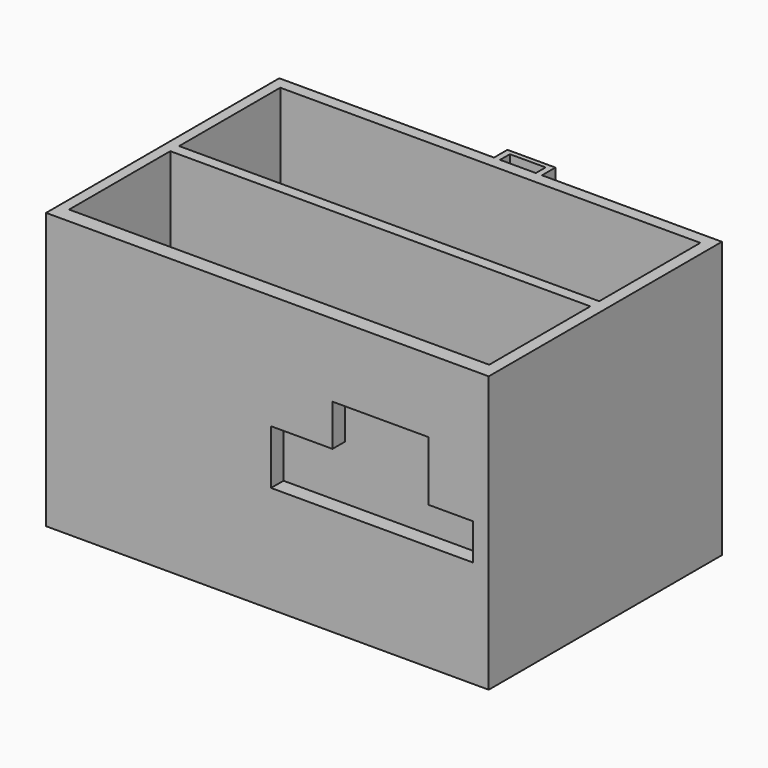
from build123d import *

# Parameters (mm, degrees)
F0_W      = 86.36
F0_H      = 58.42
F1_DEPTH  = 61.722
F2_W      = 13.0146164447
F2_H      = 11.5111361851
F2_W_2    = 9.3842569146
F2_H_2    = 7.7007600234
F3_DEPTH  = 56.642
F4_W      = 81.28
F4_H      = 55.88
F5_DEPTH  = 55.88
F6_W      = 81.28
F6_H      = 2.3422017694
F7_DEPTH  = 55.88
F8_W      = 10.16
F8_H      = 49.7436418003
F8_H_2    = 8.6763581997
F9_DEPTH  = 3.556
F10_W     = 7.5672202845
F10_H     = 1.6030113697
F10_H_2   = 0.9847168326
F11_DEPTH = 69.342
F12_DEPTH = 7.366
F13_W     = 7.66663257
F13_H     = 26.7714005868
F14_DEPTH = 55.88
F15_W     = 7.66663257
F15_H     = 26.7663976438
F16_DEPTH = 55.88
F17_W     = 17.341342
F17_H     = 15.24
F18_DEPTH = 25.4


with BuildPart() as f1:
    # F0 (on Front) → F1 (new body)
    with BuildSketch(Plane.XZ):
        with Locations((-2.54, 0)):
            Rectangle(F0_W, F0_H)
    extrude(amount=-F1_DEPTH)

    # F2 (on face) → F3 (cut)
    with BuildSketch(Plane.XZ):
        Polygon((27.8808352199, 13.7387597933), (7.5608352199, 13.7387597933), (7.5608352199, 4.9298959784), (7.5608352199, -6.5812402067), (27.8808352199, -6.5812402067), (27.8808352199, 1.1195198167), align=None)
        with Locations((1.0535269976, -0.8256721141)):
            Rectangle(F2_W, F2_H)
        with Locations((32.5729636772, -2.730860195)):
            Rectangle(F2_W_2, F2_H_2)
    extrude(amount=-F3_DEPTH, mode=Mode.SUBTRACT)

    # F4 (on face) → F5 (cut)
    with BuildSketch(Plane.XY.offset(29.21)):
        with Locations((-2.54, 31.242)):
            Rectangle(F4_W, F4_H)
    extrude(amount=-F5_DEPTH, mode=Mode.SUBTRACT)

    # F6 (on face) → F7 (join)
    with BuildSketch(Plane.XY.offset(-26.67)):
        with Locations((-2.54, 31.2445014715)):
            Rectangle(F6_W, F6_H)
    extrude(amount=F7_DEPTH)

    # F8 (on face) → F9 (join)
    with BuildSketch(Plane(origin=(0, 61.722, 0), x_dir=(-1, 0, 0), z_dir=(0, 1, 0))):
        with Locations((2.54, -4.3381790999)):
            Rectangle(F8_W, F8_H)
        with Locations((2.54, 24.8718209001)):
            Rectangle(F8_W, F8_H_2)
    extrude(amount=F9_DEPTH)

    # F10 (on face) → F11 (cut)
    with BuildSketch(Plane.XY.offset(29.21)):
        with Locations((-2.54, 63.5)):
            Rectangle(F10_W, F10_H)
        with Locations((-2.54, 62.2061358988)):
            Rectangle(F10_W, F10_H_2)
    extrude(amount=-F11_DEPTH, mode=Mode.SUBTRACT)

    # F12 (add): a face of the model
    f12_faces = [f1.faces().sort_by_distance(p)[0] for p in [
        (-45.72, 30.861, 0),
    ]]
    extrude(f12_faces, amount=F12_DEPTH)

    # F13 (on face) → F14 (cut)
    with BuildSketch(Plane.XY.offset(29.21)):
        with Locations((-47.013316285, 16.6877002934)):
            Rectangle(F13_W, F13_H)
    extrude(amount=-F14_DEPTH, mode=Mode.SUBTRACT)

    # F15 (on face) → F16 (cut)
    with BuildSketch(Plane.XY.offset(29.21)):
        with Locations((-47.013316285, 45.7988011781)):
            Rectangle(F15_W, F15_H)
    extrude(amount=-F16_DEPTH, mode=Mode.SUBTRACT)

    # F17 (on face) → F18 (cut)
    with BuildSketch(Plane(origin=(-53.086, 0, 0), x_dir=(0, -1, 0), z_dir=(-1, 0, 0))):
        with Locations((-14.1710711635, 1.3578335623)):
            Rectangle(F17_W, F17_H)
    extrude(amount=-F18_DEPTH, mode=Mode.SUBTRACT)


solid = f1.part
